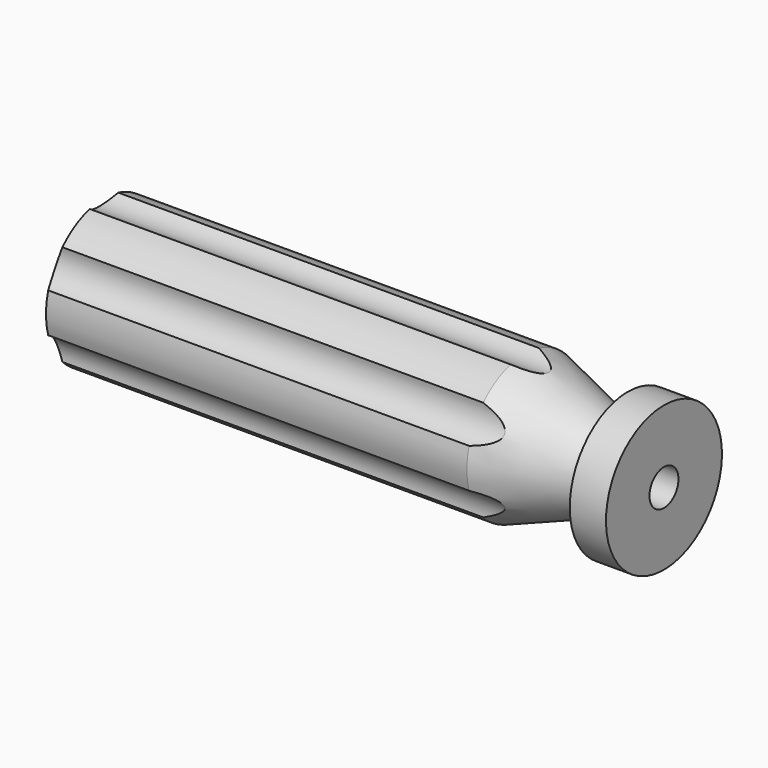
from build123d import *

# Parameters (mm, degrees)
F4_START = -6.35
F3_R     = 4.826
F4_DEPTH = 95.25


with BuildPart() as f1:
    # F0 (on Front) → F1 (revolve)
    with BuildSketch(Plane.XZ):
        with BuildLine():
            Line((1.1938, 0), (8.89, 0))
            Line((8.89, 0), (8.89, 3.175))
            Line((8.89, 3.175), (33.274, 3.175))
            Line((33.274, 3.175), (33.274, 12.7))
            Line((33.274, 12.7), (26.924, 12.7))
            Line((26.924, 12.7), (26.924, 9.7636567324))
            ThreePointArc((26.924, 9.7636567324), (25.8408841483, 7.6830105399), (23.515268836, 7.3768374756))
            Line((23.515268836, 7.3768374756), (8.89, 12.7))
            Line((8.89, 12.7), (-64.8662083474, 12.7))
            ThreePointArc((-64.8662083474, 12.7), (-67.4455732731, 6.5814162283), (-68.326, 0))
            Line((-68.326, 0), (-1.1938, 0))
            ThreePointArc((-1.1938, 0), (0, 1.1938), (1.1938, 0))
        make_face()
        with BuildLine():
            ThreePointArc((-1.1938, 0), (0, -1.1938), (1.1938, 0))
            Line((1.1938, 0), (-1.1938, 0))
        make_face()
        with BuildLine():
            Line((-1.1938, 0), (1.1938, 0))
            ThreePointArc((1.1938, 0), (0, 1.1938), (-1.1938, 0))
        make_face()
    revolve(axis=Axis((-29.718, 0, 0), (-1, 0, 0)))


with BuildPart() as f2:
    # F0 (on Front) → F2 (revolve)
    with BuildSketch(Plane.XZ):
        with BuildLine():
            Line((1.1938, 0), (8.89, 0))
            Line((8.89, 0), (8.89, 3.175))
            Line((8.89, 3.175), (33.274, 3.175))
            Line((33.274, 3.175), (33.274, 12.7))
            Line((33.274, 12.7), (26.924, 12.7))
            Line((26.924, 12.7), (26.924, 9.7636567324))
            ThreePointArc((26.924, 9.7636567324), (25.8408841483, 7.6830105399), (23.515268836, 7.3768374756))
            Line((23.515268836, 7.3768374756), (8.89, 12.7))
            Line((8.89, 12.7), (-64.8662083474, 12.7))
            ThreePointArc((-64.8662083474, 12.7), (-67.4455732731, 6.5814162283), (-68.326, 0))
            Line((-68.326, 0), (-1.1938, 0))
            ThreePointArc((-1.1938, 0), (0, 1.1938), (1.1938, 0))
        make_face()
        with BuildLine():
            ThreePointArc((-1.1938, 0), (0, -1.1938), (1.1938, 0))
            Line((1.1938, 0), (-1.1938, 0))
        make_face()
        with BuildLine():
            Line((-1.1938, 0), (1.1938, 0))
            ThreePointArc((1.1938, 0), (0, 1.1938), (-1.1938, 0))
        make_face()
    revolve(axis=Axis((-29.718, 0, 0), (-1, 0, 0)))


with BuildPart() as f4_tool:
    # F3 (on face) → F4 (new body)
    with BuildSketch(Plane.YZ.offset(33.274).offset(F4_START)):
        with Locations((0, 16.002)):
            Circle(F3_R)
        with Locations((-13.8581385114, 8.001)):
            Circle(F3_R)
        with Locations((-13.8581385114, -8.001)):
            Circle(F3_R)
        with Locations((0, -16.002)):
            Circle(F3_R)
        with Locations((13.8581385114, -8.001)):
            Circle(F3_R)
        with Locations((13.8581385114, 8.001)):
            Circle(F3_R)
    extrude(amount=-F4_DEPTH)


with BuildPart() as f1_1:
    add(f1.part)

    # F4: cut by f4_tool
    add(f4_tool.part, mode=Mode.SUBTRACT)


with BuildPart() as f2_1:
    add(f2.part)

    # F4: cut by f4_tool
    add(f4_tool.part, mode=Mode.SUBTRACT)


solid = Compound([f1_1.part, f2_1.part])
